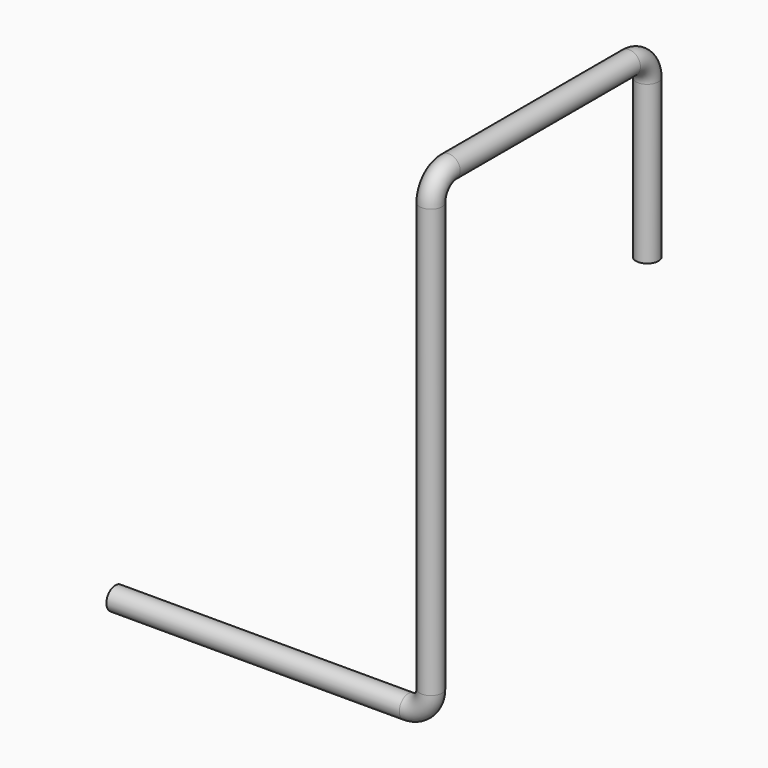
from build123d import *

# Parameters (mm, degrees)
F3_R   = 6.35
F3_R_2 = 4.826


with BuildPart() as f4:
    # F4: sweep along a path in F0, F2
    with BuildLine(Plane.XZ) as f4_path:
        Line((0, 0), (165.1, 0))
        ThreePointArc((165.1, 0), (174.0802561211, 3.7197438789), (177.8, 12.7))
        Line((177.8, 12.7), (177.8, 114.1142398119))
    with BuildLine(Plane.YZ.offset(177.8)) as f4_path_2:
        Line((0, 114.1142398119), (0, 254))
        ThreePointArc((0, 254), (3.7197438789, 262.9802561211), (12.7, 266.7))
        Line((12.7, 266.7), (139.7, 266.7))
        ThreePointArc((139.7, 266.7), (148.6802561211, 262.9802561211), (152.4, 254))
        Line((152.4, 254), (152.4, 165.1))
    # F3 (on Right) → F4 (sweep)
    with BuildSketch(Plane.YZ):
        Circle(F3_R)
        Circle(F3_R_2, mode=Mode.SUBTRACT)
    sweep(path=f4_path.line + f4_path_2.line)


solid = f4.part
